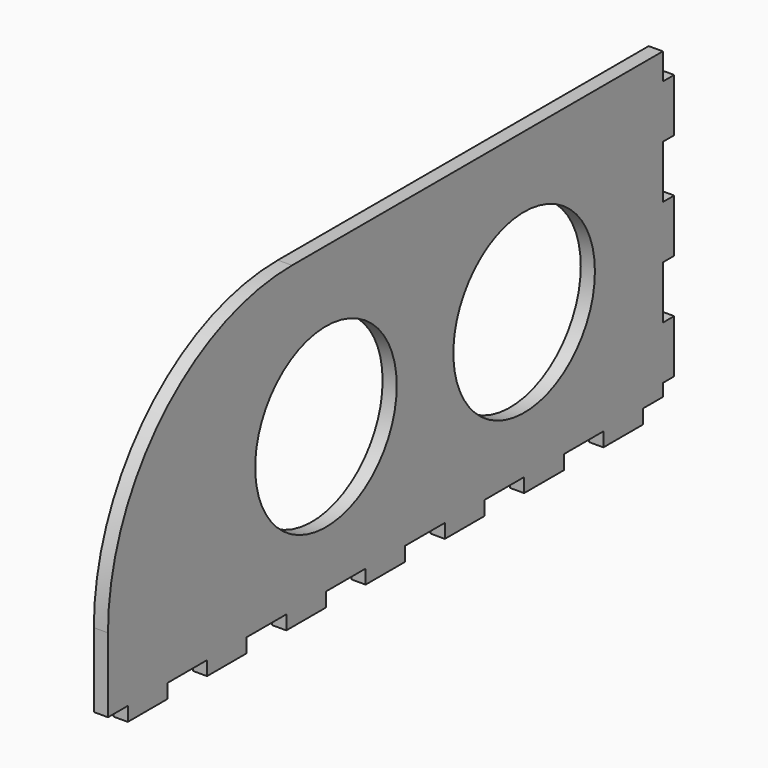
from build123d import *

# Parameters (mm, degrees)
SKETCH086_W     = 200
SKETCH086_H     = 90
PAD043_DEPTH    = 4
SKETCH087_R     = 25
SKETCH087_W     = 7
SKETCH087_H     = 4
SKETCH087_W_2   = 14
SKETCH087_W_3   = 4
SKETCH087_H_2   = 15
SKETCH087_H_3   = 7.5
POCKET039_DEPTH = 4
FILLET006_R     = 65


with BuildPart() as part:
    # Sketch086 → Pad043 (new body)
    with BuildSketch(Plane.YZ):
        Rectangle(SKETCH086_W, SKETCH086_H)
    extrude(amount=PAD043_DEPTH)

    # Sketch087 (on Face6 of Pad043) → Pocket039 (cut)
    with BuildSketch(Plane.YZ.offset(4)):
        with Locations((-23, 0)):
            Circle(SKETCH087_R)
        with Locations((47, 0)):
            Circle(SKETCH087_R)
        with Locations((-96.5, -43)):
            Rectangle(SKETCH087_W, SKETCH087_H)
        with Locations((-72, -43)):
            Rectangle(SKETCH087_W_2, SKETCH087_H)
        with Locations((-44, -43)):
            Rectangle(SKETCH087_W_2, SKETCH087_H)
        with Locations((-16, -43)):
            Rectangle(SKETCH087_W_2, SKETCH087_H)
        with Locations((12, -43)):
            Rectangle(SKETCH087_W_2, SKETCH087_H)
        with Locations((40, -43)):
            Rectangle(SKETCH087_W_2, SKETCH087_H)
        with Locations((68, -43)):
            Rectangle(SKETCH087_W_2, SKETCH087_H)
        with Locations((98, -15)):
            Rectangle(SKETCH087_W_3, SKETCH087_H_2)
        with Locations((98, 15)):
            Rectangle(SKETCH087_W_3, SKETCH087_H_2)
        with Locations((98, 41.25)):
            Rectangle(SKETCH087_W_3, SKETCH087_H_3)
        Polygon((89, -45), (89, -41), (96, -41), (96, -37.5), (100, -37.5), (100, -45), align=None)
    extrude(amount=-POCKET039_DEPTH, mode=Mode.SUBTRACT)

    # Fillet006
    fillet006_edges = [part.edges().sort_by_distance(p)[0] for p in [
        (2, -100, 45),
    ]]
    fillet(fillet006_edges, radius=FILLET006_R)


with BuildPart() as part_1:
    # Body043 placement: moved
    add(part.part.moved(Location((336, -402, 0))))


solid = part_1.part
